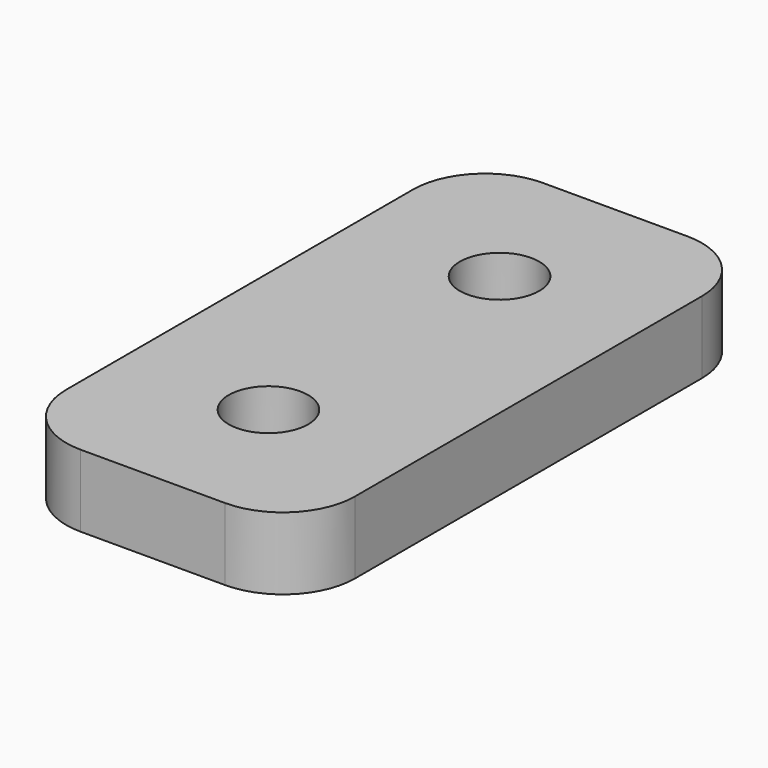
from build123d import *

# Parameters (mm, degrees)
F0_W     = 20
F0_H     = 40
F0_R     = 2.75
F1_DEPTH = 5
F2_R     = 5


with BuildPart() as f1:
    # F0 (on Top) → F1 (new body)
    with BuildSketch(Plane.XY):
        Rectangle(F0_W, F0_H)
        with Locations((0, -10)):
            Circle(F0_R, mode=Mode.SUBTRACT)
        with Locations((0, 10)):
            Circle(F0_R, mode=Mode.SUBTRACT)
    extrude(amount=F1_DEPTH)

    # F2
    f2_edges = [f1.edges().sort_by_distance(p)[0] for p in [
        (-10, 20, 2.5),
        (10, 20, 2.5),
        (10, -20, 2.5),
        (-10, -20, 2.5),
    ]]
    fillet(f2_edges, radius=F2_R)


solid = f1.part
